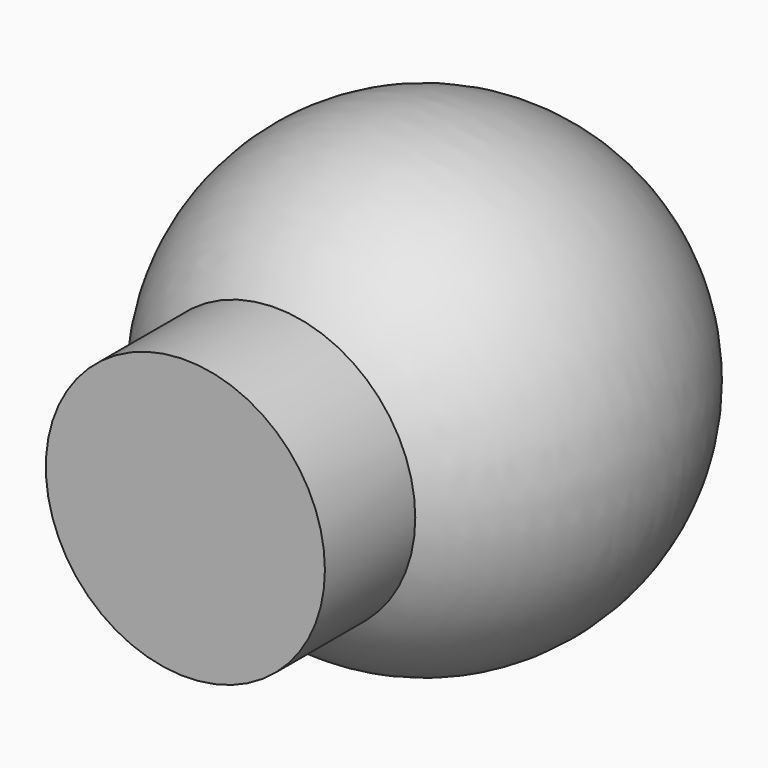
from build123d import *


with BuildPart() as part:
    # Sketch (on XY_Plane of Origin) → Revolution (revolve)
    with BuildSketch(Plane.XY):
        with BuildLine():
            ThreePointArc((0.64271, 2.614205), (1.015125, 3.808654), (0, 4.540039))
            Line((0, 4.540039), (0, 2.093952))
            Line((0.64271, 2.093952), (0, 2.093952))
            Line((0.64271, 2.614205), (0.64271, 2.093952))
        make_face()
    revolve(axis=Axis((0, 0, 0), (0, 1, 0)))


solid = part.part
